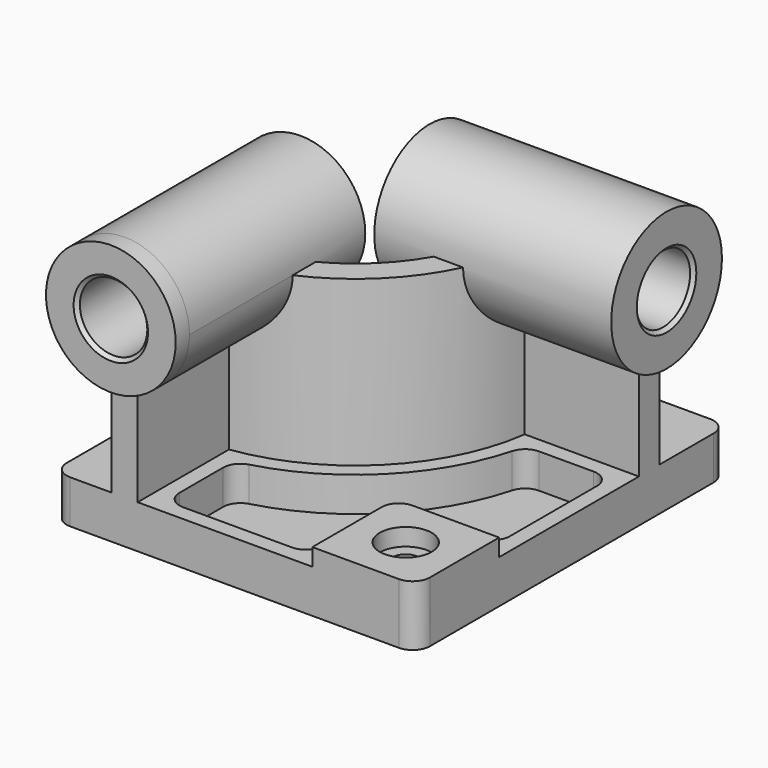
from build123d import *

# Parameters (mm, degrees)
F0_W            = 210
F0_H            = 225
F1_DEPTH        = 25
F3_DEPTH        = 95
F4_R            = 37.5
F5_DEPTH        = 10
F5_DEPTH_BACK   = 127
F6_R            = 40
F7_DEPTH        = 10
F7_DEPTH_BACK   = 127
F8_W            = 60
F8_H            = 60
F9_DEPTH        = 10
F10_R           = 10
F12_DEPTH       = 20
F14_D           = 15
F14_CBORE_D     = 30
F14_CBORE_DEPTH = 10
F15_R           = 10
F16_R           = 19.5
F17_DEPTH       = 235.001
F18_R           = 19.5
F19_DEPTH       = 220.001
F20_SIZE        = 2
F21_R           = 10


with BuildPart() as f1:
    # F0 (on Top) → F1 (new body)
    with BuildSketch(Plane.XY):
        Rectangle(F0_W, F0_H)
    extrude(amount=F1_DEPTH)

    # F2 (on face) → F3 (join)
    with BuildSketch(Plane.XY.offset(25)):
        with BuildLine():
            Line((-71, -32.5), (-71, -112.5))
            Line((-71, -112.5), (-56, -112.5))
            Line((-56, -112.5), (-56, -46.481817))
            ThreePointArc((-56, -46.481817), (7.488853, -14.988853), (38.981817, 48.5))
            Line((38.981817, 48.5), (105, 48.5))
            Line((105, 48.5), (105, 63.5))
            Line((105, 63.5), (25, 63.5))
            ThreePointArc((25, 63.5), (-3.117749, -4.382251), (-71, -32.5))
        make_face()
    extrude(amount=F3_DEPTH)

    # F4 (on face) → F5 (join, two sides)
    with BuildSketch(Plane.XZ.offset(112.5)) as f5_sk:
        with Locations((-63.5, 120)):
            Circle(F4_R)
    extrude(amount=F5_DEPTH)
    extrude(f5_sk.sketch, amount=-F5_DEPTH_BACK)

    # F6 (on face) → F7 (join, two sides)
    with BuildSketch(Plane.YZ.offset(105)) as f7_sk:
        with Locations((56, 120)):
            Circle(F6_R)
    extrude(amount=F7_DEPTH)
    extrude(f7_sk.sketch, amount=-F7_DEPTH_BACK)

    # F8 (on face) → F9 (join)
    with BuildSketch(Plane.XY.offset(25)):
        with Locations((75, -82.5)):
            Rectangle(F8_W, F8_H)
    extrude(amount=F9_DEPTH)

    # F10
    f10_edges = [f1.edges().sort_by_distance(p)[0] for p in [
        (45, -52.5, 30),
    ]]
    fillet(f10_edges, radius=F10_R)

    # F11 (on face) → F12 (cut)
    with BuildSketch(Plane.XY.offset(25)):
        with BuildLine():
            ThreePointArc((46.575508, 39.5), (13.852814, -21.352814), (-47, -54.075508))
            Line((-47, -54.075508), (-47, -103.5))
            Line((-47, -103.5), (36, -103.5))
            Line((36, -103.5), (36, -62.5))
            ThreePointArc((36, -62.5), (41.564971, -49.064971), (55, -43.5))
            Line((55, -43.5), (96, -43.5))
            Line((96, -43.5), (96, 39.5))
            Line((96, 39.5), (46.575508, 39.5))
        make_face()
    extrude(amount=-F12_DEPTH, mode=Mode.SUBTRACT)

    # F14 (through all)
    with Locations(Plane.XY.offset(35)):
        with Locations((75, -82.5)):
            CounterBoreHole(F14_D / 2, F14_CBORE_D / 2, F14_CBORE_DEPTH)

    # F15
    f15_edges = [f1.edges().sort_by_distance(p)[0] for p in [
        (-47, -54.075508, 15),
        (46.575508, 39.5, 15),
        (96, 39.5, 15),
        (96, -43.5, 15),
        (-47, -103.5, 15),
        (36, -103.5, 15),
    ]]
    fillet(f15_edges, radius=F15_R)

    # F16 (on face) → F17 (cut, through all)
    with BuildSketch(Plane.XZ.offset(122.5)):
        with Locations((-63.5, 120)):
            Circle(F16_R)
    extrude(amount=-F17_DEPTH, mode=Mode.SUBTRACT)

    # F18 (on face) → F19 (cut, through all)
    with BuildSketch(Plane.YZ.offset(115)):
        with Locations((56, 120)):
            Circle(F18_R)
    extrude(amount=-F19_DEPTH, mode=Mode.SUBTRACT)

    # F20
    f20_edges = [f1.edges().sort_by_distance(p)[0] for p in [
        (-83, -122.5, 120),
        (115, 36.5, 120),
        (-83, 14.5, 120),
        (-22, 36.5, 120),
    ]]
    chamfer(f20_edges, length=F20_SIZE)

    # F21
    f21_edges = [f1.edges().sort_by_distance(p)[0] for p in [
        (105, -112.5, 17.5),
        (105, 112.5, 12.5),
        (-105, -112.5, 12.5),
        (-105, 112.5, 12.5),
    ]]
    fillet(f21_edges, radius=F21_R)


solid = f1.part
